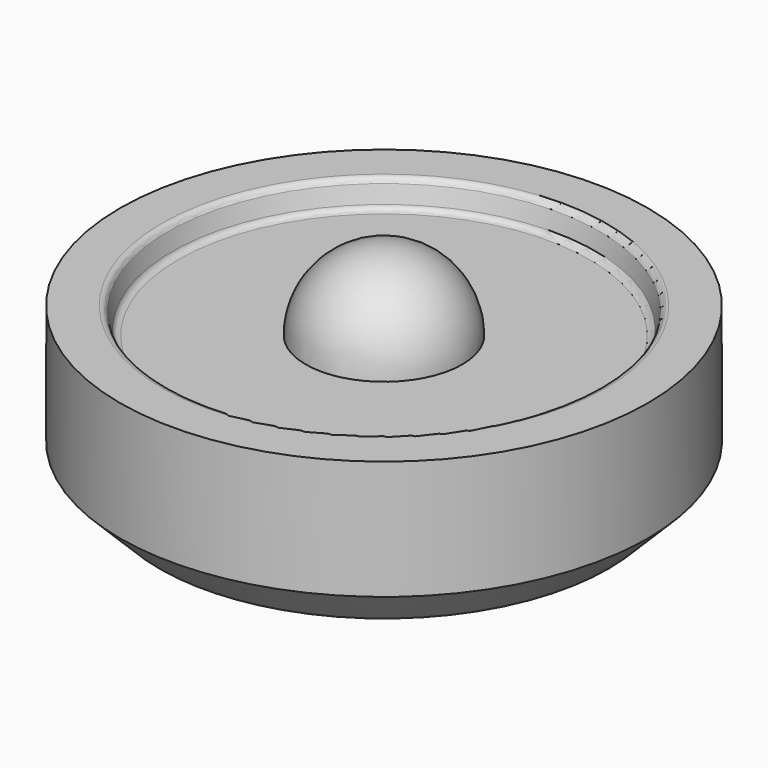
from build123d import *

# Parameters (mm, degrees)
F2_SIZE = 30
F5_R    = 5


with BuildPart() as f1:
    # F0 (on Front) → F1 (revolve)
    with BuildSketch(Plane.XZ):
        Polygon((0, 0), (0, -101.104952), (200.569421, -100.49326), (200.569421, 20.011885), (165.090755, 20.011885), (160.197139, 0), align=None)
    revolve(axis=Axis((0, 0, -50.552476), (0, 0, 1)))

    # F2
    f2_edges = [f1.edges().sort_by_distance(p)[0] for p in [
        (-200.569421, 0, -100.49326),
    ]]
    chamfer(f2_edges, length=F2_SIZE)

    # F3 (on Front) → F4 (revolve)
    with BuildSketch(Plane.XZ):
        with BuildLine():
            Line((0, 0), (59.528868, 0))
            ThreePointArc((59.528868, 0), (0, 59.528868), (-59.528868, 0))
            Line((-59.528868, 0), (0, 0))
        make_face()
    revolve(axis=Axis((-29.764434, 0, 0), (-1, 0, 0)))

    # F5
    f5_edges = [f1.edges().sort_by_distance(p)[0] for p in [
        (-165.090755, 0, 20.011885),
        (-160.197139, 0, 0),
    ]]
    fillet(f5_edges, radius=F5_R)


solid = f1.part
